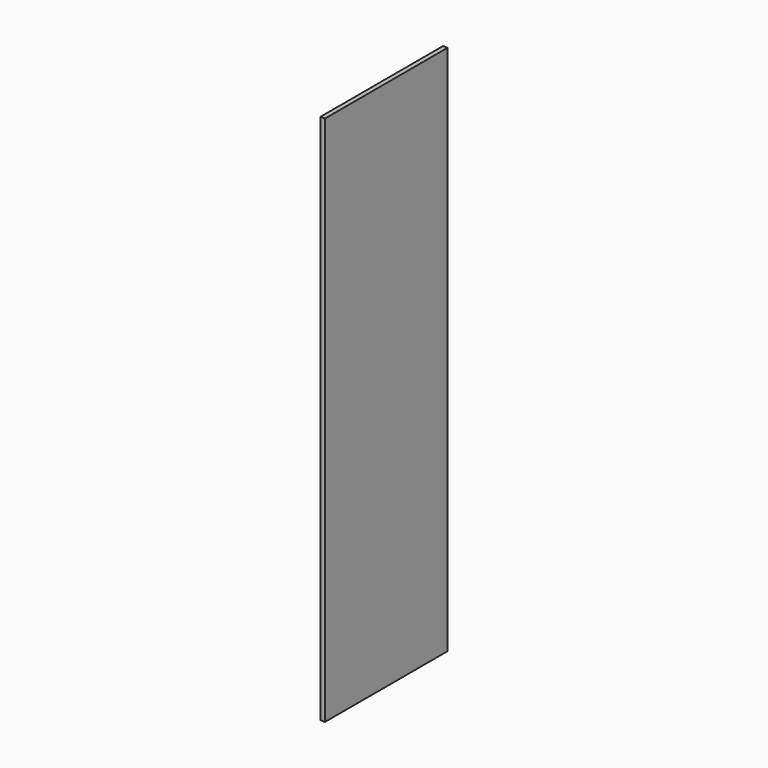
from build123d import *

# Parameters (mm, degrees)
F0_W     = 600
F0_H     = 2082
F1_DEPTH = 18


with BuildPart() as f1:
    # F0 (on Right) → F1 (new body)
    with BuildSketch(Plane.YZ):
        with Locations((300, 1041)):
            Rectangle(F0_W, F0_H)
    extrude(amount=F1_DEPTH)


with BuildPart() as f2_1:
    # F2: copy of F1
    add(f1.part)


solid = Compound([f1.part, f2_1.part])
